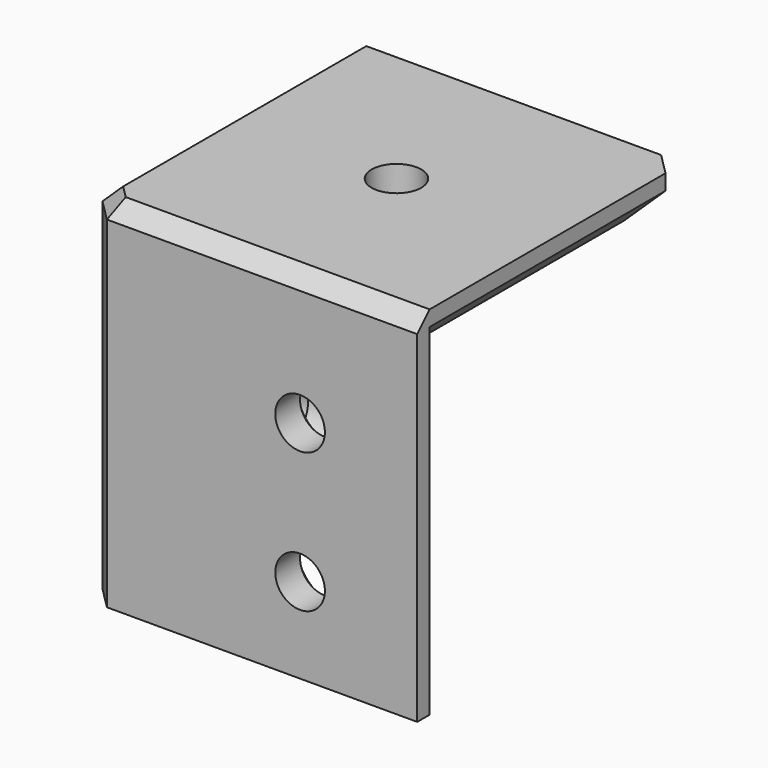
from build123d import *

# Parameters (mm, degrees)
PAD046_DEPTH    = 20
PAD047_DEPTH    = 3
CHAMFER025_SIZE = 2
CHAMFER026_SIZE = 1
SKETCH085_R     = 1.6
POCKET026_DEPTH = 5
CHAMFER027_SIZE = 1
SKETCH086_R     = 1.6
POCKET027_DEPTH = 3
CHAMFER028_SIZE = 1
SKETCH087_R     = 1.6
POCKET028_DEPTH = 3.001
CHAMFER029_SIZE = 1


with BuildPart() as part:
    # Sketch083 → Pad046 (new body)
    with BuildSketch(Plane.XY):
        Polygon((19.414214, 3), (8.313708, 3), (3, 8.313708), (3, 19.414214), (1, 21.414214), (0, 21.414214), (0, 1.414214), (1.414214, 0), (21.414214, 0), (21.414214, 1), align=None)
    extrude(amount=-PAD046_DEPTH)

    # Sketch084 → Pad047 (join)
    with BuildSketch(Plane.XY):
        Polygon((0, 21.414214), (20, 21.414214), (21.414214, 20), (21.414214, 0), (1.414214, 0), (0, 1.414214), align=None)
    extrude(amount=PAD047_DEPTH)

    # Chamfer025
    chamfer025_edges = [part.edges().sort_by_distance(p)[0] for p in [
        (21.414214, 10.5, 0),
        (20.707107, 20.707107, 0),
        (10.5, 21.414214, 0),
    ]]
    chamfer(chamfer025_edges, length=CHAMFER025_SIZE)

    # Chamfer026
    chamfer026_edges = [part.edges().sort_by_distance(p)[0] for p in [
        (0.707107, 0.707107, 3),
        (11.414214, 0, 3),
        (0, 11.414214, 3),
    ]]
    chamfer(chamfer026_edges, length=CHAMFER026_SIZE)

    # Sketch085 (on Face15 of Chamfer026) → Pocket026 (cut)
    with BuildSketch(Plane(origin=(0, 0, 0), x_dir=(1, 0, 0), z_dir=(0, 0, -1))):
        with Locations((11.207107, -11.085786)):
            Circle(SKETCH085_R)
    extrude(amount=-POCKET026_DEPTH, mode=Mode.SUBTRACT)

    # Chamfer027
    chamfer027_edges = [part.edges().sort_by_distance(p)[0] for p in [
        (9.607107, 11.085786, 0),
    ]]
    chamfer(chamfer027_edges, length=CHAMFER027_SIZE)

    # Sketch086 (on Face16 of Chamfer027) → Pocket027 (cut)
    with BuildSketch(Plane.YZ.offset(3)):
        with Locations((13.863961, -14.5)):
            Circle(SKETCH086_R)
        with Locations((13.863961, -5.5)):
            Circle(SKETCH086_R)
    extrude(amount=-POCKET027_DEPTH, mode=Mode.SUBTRACT)

    # Chamfer028
    chamfer028_edges = [part.edges().sort_by_distance(p)[0] for p in [
        (3, 12.263961, -14.5),
        (3, 12.263961, -5.5),
    ]]
    chamfer(chamfer028_edges, length=CHAMFER028_SIZE)

    # Sketch087 (on Face9 of Chamfer028) → Pocket028 (cut, through all)
    with BuildSketch(Plane(origin=(0, 3, 0), x_dir=(-1, 0, 0), z_dir=(0, 1, 0))):
        with Locations((-13.863961, -5.5)):
            Circle(SKETCH087_R)
        with Locations((-13.863961, -14.5)):
            Circle(SKETCH087_R)
    extrude(amount=-POCKET028_DEPTH, mode=Mode.SUBTRACT)

    # Chamfer029
    chamfer029_edges = [part.edges().sort_by_distance(p)[0] for p in [
        (15.463961, 3, -5.5),
        (15.463961, 3, -14.5),
    ]]
    chamfer(chamfer029_edges, length=CHAMFER029_SIZE)


with BuildPart() as part_1:
    # Body082 placement: moved
    add(part.part.moved(Location((0, 0, -18))))


solid = part_1.part
